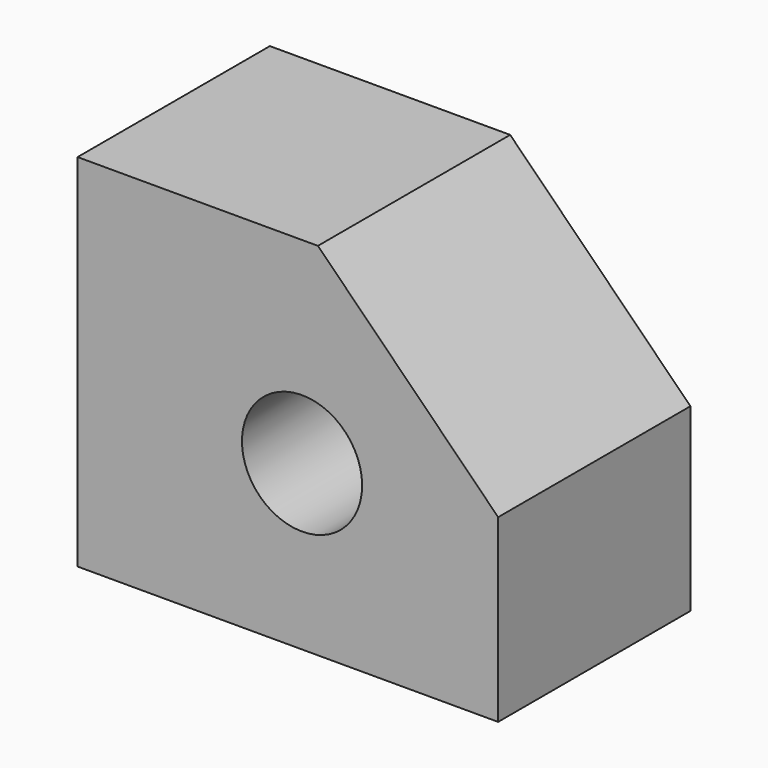
from build123d import *

# Parameters (mm, degrees)
F0_W     = 88.9
F0_H     = 76.2
F1_DEPTH = 50.8
F2_SIZE  = 38.1
F3_R     = 12.7
F4_DEPTH = 50.8


with BuildPart() as f1:
    # F0 (on Front) → F1 (new body)
    with BuildSketch(Plane.XZ):
        with Locations((-2.997909, 3.463231)):
            Rectangle(F0_W, F0_H)
    extrude(amount=F1_DEPTH)

    # F2
    f2_edges = [f1.edges().sort_by_distance(p)[0] for p in [
        (41.452091, -25.4, 41.563231),
    ]]
    chamfer(f2_edges, length=F2_SIZE)

    # F3 (on face) → F4 (cut)
    with BuildSketch(Plane.XZ.offset(50.8)):
        Circle(F3_R)
    extrude(amount=-F4_DEPTH, mode=Mode.SUBTRACT)


solid = f1.part
